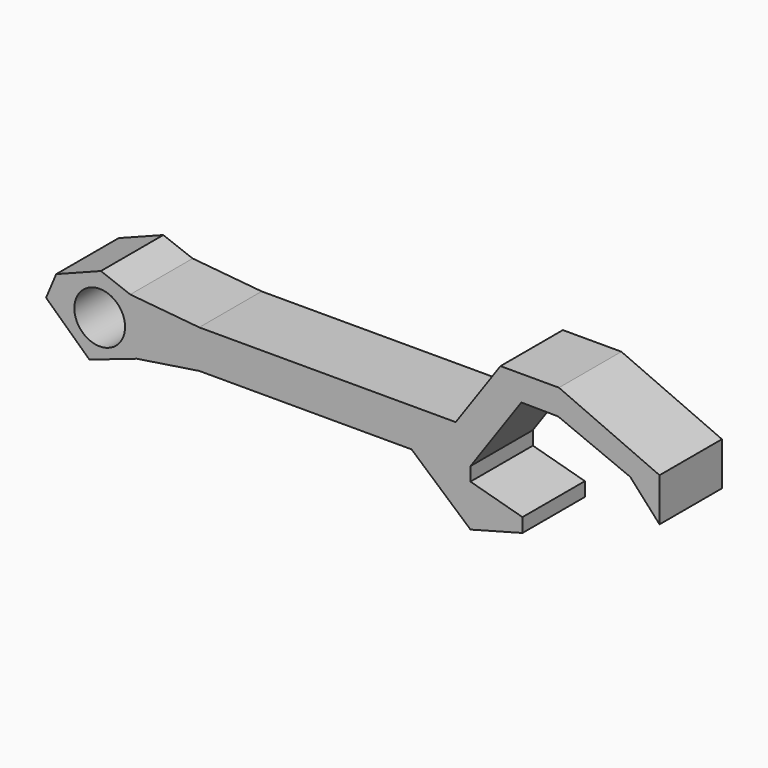
from build123d import *

# Parameters (mm, degrees)
F0_R     = 1.787702
F1_DEPTH = 5.5


with BuildPart() as f1:
    # F0 (on Front) → F1 (new body)
    with BuildSketch(Plane.XZ):
        Polygon((19.679776, 2.278557), (21.747498, 0), (21.747498, 3.052339), (14.656885, 6.18055), (10.530515, 6.18055), (7.375845, 1.675214), (-10.710787, 1.675214), (-15.575712, 2.135176), (-17.646542, 2.918734), (-20.797498, 1.702038), (-21.512651, 0), (-18.458083, -2.846011), (-15.116328, -1.703546), (-10.710787, -1.028649), (4.262274, -1.028649), (8.416017, -4.656999), (12.083098, -3.676642), (12.083098, -2.692088), (8.416017, -1.68081), (8.416017, -0.716795), (12.00087, 4.402905), (14.596017, 4.377459), align=None)
        with Locations((-17.730495, 0)):
            Circle(F0_R, mode=Mode.SUBTRACT)
    extrude(amount=F1_DEPTH)


solid = f1.part
